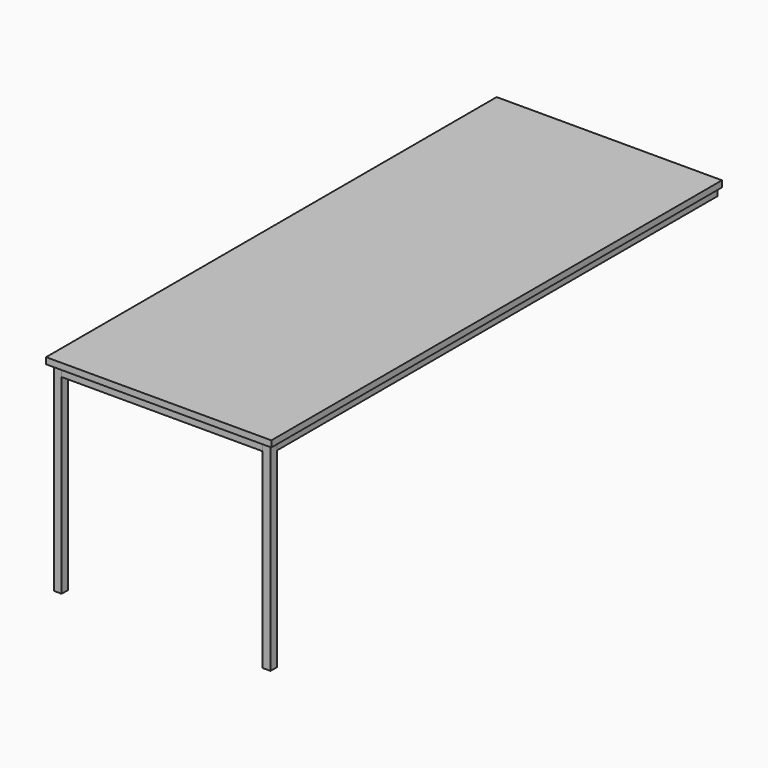
from build123d import *

# Parameters (mm, degrees)
F0_W      = 1000
F0_H      = 2500
F1_DEPTH  = 28
F3_DEPTH  = 40
F4_DEPTH  = 40
F5_DEPTH  = 40
F2_W      = 296
F2_H      = 25
F6_DEPTH  = 40
F7_DEPTH  = 40
F2_W_2    = 912
F8_DEPTH  = 40
F9_DEPTH  = 40
F10_DEPTH = 40
F11_DEPTH = 887
F12_DEPTH = 887
F2_W_3    = 892
F13_DEPTH = 40


with BuildPart() as f1:
    # F0 (on Top) → F1 (new body)
    with BuildSketch(Plane.XY):
        with Locations((500, -1250)):
            Rectangle(F0_W, F0_H)
    extrude(amount=F1_DEPTH)


with BuildPart() as f3:
    # F2 (on Top) → F3 (new body)
    with BuildSketch(Plane.XY):
        Polygon((660, 0), (635, 0), (635, -1475), (660, -1475), (660, -762.5), (660, -737.5), (660, -25), align=None)
    extrude(amount=-F3_DEPTH)


with BuildPart() as f4:
    # F2 (on Top) → F4 (new body)
    with BuildSketch(Plane.XY):
        Polygon((981, 0), (956, 0), (956, -25), (956, -737.5), (956, -762.5), (956, -1475), (956, -1500), (956, -1802), (956, -1827), (956, -2129), (956, -2154), (956, -2446), (981, -2446), align=None)
    extrude(amount=-F4_DEPTH)


with BuildPart() as f5:
    # F2 (on Top) → F5 (new body)
    with BuildSketch(Plane.XY):
        Polygon((660, -1475), (635, -1475), (44, -1475), (44, -1500), (956, -1500), (956, -1475), align=None)
    extrude(amount=-F5_DEPTH)


with BuildPart() as f6:
    # F2 (on Top) → F6 (new body)
    with BuildSketch(Plane.XY):
        with Locations((808, -12.5)):
            Rectangle(F2_W, F2_H)
    extrude(amount=-F6_DEPTH)


with BuildPart() as f7:
    # F2 (on Top) → F7 (new body)
    with BuildSketch(Plane.XY):
        with Locations((808, -750)):
            Rectangle(F2_W, F2_H)
    extrude(amount=-F7_DEPTH)


with BuildPart() as f8:
    # F2 (on Top) → F8 (new body)
    with BuildSketch(Plane.XY):
        with Locations((500, -1814.5)):
            Rectangle(F2_W_2, F2_H)
    extrude(amount=-F8_DEPTH)


with BuildPart() as f9:
    # F2 (on Top) → F9 (new body)
    with BuildSketch(Plane.XY):
        with Locations((500, -2141.5)):
            Rectangle(F2_W_2, F2_H)
    extrude(amount=-F9_DEPTH)


with BuildPart() as f10:
    # F2 (on Top) → F10 (new body)
    with BuildSketch(Plane.XY):
        Polygon((44, -1500), (44, -1475), (19, -1475), (19, -2446), (44, -2446), (44, -2154), (44, -2129), (44, -1827), (44, -1802), align=None)
    extrude(amount=-F10_DEPTH)


with BuildPart() as f11:
    # F2 (on Top) → F11 (new body)
    with BuildSketch(Plane.XY):
        Polygon((981, -2481), (981, -2446), (956, -2446), (946, -2446), (946, -2456), (946, -2481), align=None)
    extrude(amount=-F11_DEPTH)


with BuildPart() as f12:
    # F2 (on Top) → F12 (new body, through all)
    with BuildSketch(Plane.XY):
        Polygon((44, -2446), (19, -2446), (19, -2481), (54, -2481), (54, -2456), (54, -2446), align=None)
    extrude(amount=-F12_DEPTH)


with BuildPart() as f13:
    # F2 (on Top) → F13 (new body)
    with BuildSketch(Plane.XY):
        with Locations((500, -2468.5)):
            Rectangle(F2_W_3, F2_H)
    extrude(amount=-F13_DEPTH)


solid = Compound([f1.part, f3.part, f4.part, f5.part, f6.part, f7.part, f8.part, f9.part, f10.part, f11.part, f12.part, f13.part])
